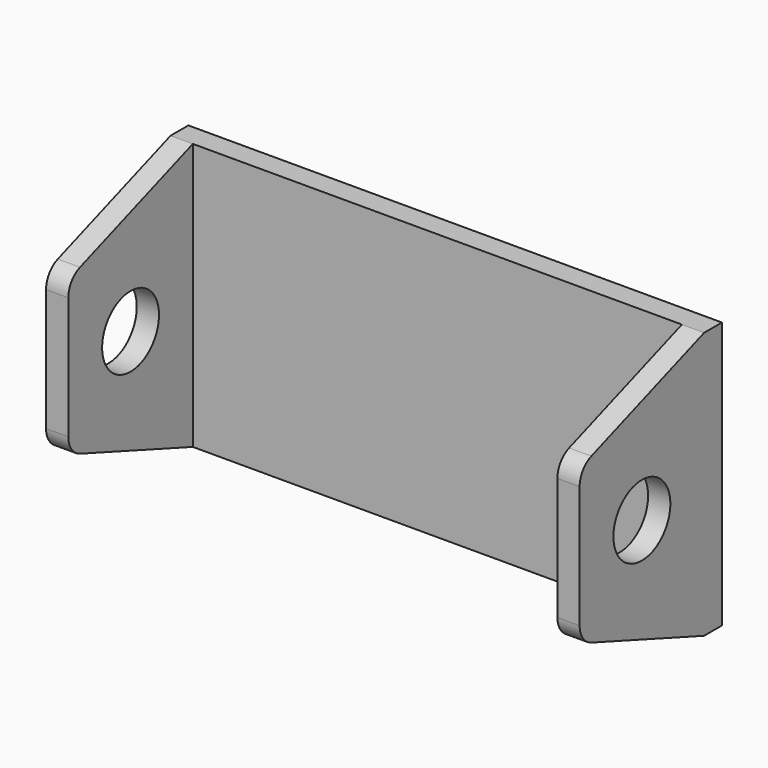
from build123d import *

# Parameters (mm, degrees)
F0_W     = 120
F0_H     = 60
F1_DEPTH = 5
F3_DEPTH = 5
F6_DEPTH = 5
F4_R     = 8
F7_DEPTH = 146
F8_R     = 5


with BuildPart() as f1:
    # F0 (on Front) → F1 (new body)
    with BuildSketch(Plane.XZ):
        with Locations((60, 30)):
            Rectangle(F0_W, F0_H)
    extrude(amount=F1_DEPTH)

    # F2 (on face) → F3 (join)
    with BuildSketch(Plane(origin=(0, 0, 0), x_dir=(0, -1, 0), z_dir=(-1, 0, 0))):
        Polygon((40, 47.261042), (5, 60), (5, 0), (40, 12.738958), align=None)
    extrude(amount=-F3_DEPTH)

    # F5 (on face) → F6 (join)
    with BuildSketch(Plane.YZ.offset(120)):
        Polygon((-5, 0), (-5, 60), (-40, 47.261042), (-40, 12.738958), align=None)
    extrude(amount=-F6_DEPTH)

    # F4 (on face) → F7 (cut)
    with BuildSketch(Plane(origin=(0, 0, 0), x_dir=(0, -1, 0), z_dir=(-1, 0, 0))):
        with Locations((22.5, 29.999479)):
            Circle(F4_R)
    extrude(amount=-F7_DEPTH, mode=Mode.SUBTRACT)

    # F8
    f8_edges = [f1.edges().sort_by_distance(p)[0] for p in [
        (2.5, -40, 47.261042),
        (2.5, -40, 12.738958),
        (117.5, -40, 47.261042),
        (117.5, -40, 12.738958),
    ]]
    fillet(f8_edges, radius=F8_R)


solid = f1.part
